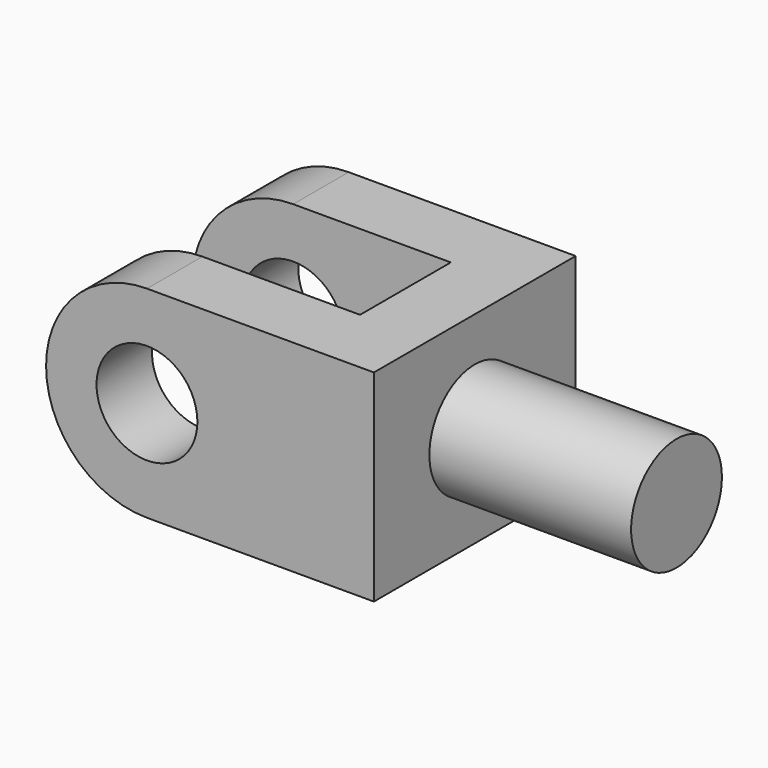
from build123d import *

# Parameters (mm, degrees)
F1_DEPTH = 812.8
F3_DEPTH = 1016.001
F4_W     = 812.8
F4_H     = 457.2
F5_DEPTH = 812.8
F7_DEPTH = 812.8
F8_R     = 203.2
F9_DEPTH = 1016.001


with BuildPart() as f1:
    # F0 (on Top) → F1 (new body)
    with BuildSketch(Plane.XY):
        Polygon((1270.516747, 38.461771), (-50.283253, 38.461771), (-50.283253, -240.938229), (991.116747, -240.938229), (991.116747, -698.138229), (-50.283253, -698.138229), (-50.283253, -977.538229), (1270.516747, -977.538229), align=None)
    extrude(amount=F1_DEPTH)

    # F2 (on face) → F3 (cut, through all)
    with BuildSketch(Plane(origin=(0, 38.461771, 0), x_dir=(-1, 0, 0), z_dir=(0, 1, 0))):
        with BuildLine():
            Line((50.283253, 406.4), (50.283253, 812.8))
            Line((50.283253, 812.8), (-356.116747, 812.8))
            ThreePointArc((-356.116747, 812.8), (-68.748551, 693.768196), (50.283253, 406.4))
        make_face()
        with BuildLine():
            Line((50.283253, 0), (50.283253, 406.4))
            ThreePointArc((50.283253, 406.4), (-68.748551, 119.031804), (-356.116747, 0))
            Line((-356.116747, 0), (50.283253, 0))
        make_face()
    extrude(amount=-F3_DEPTH, mode=Mode.SUBTRACT)

    # F4 (on face) → F5 (join)
    with BuildSketch(Plane.XY.offset(812.8)):
        with Locations((1676.916747, -469.538229)):
            Rectangle(F4_W, F4_H)
    extrude(amount=-F5_DEPTH)

    # F6 (on face) → F7 (cut)
    with BuildSketch(Plane.YZ.offset(2083.316747)):
        with BuildLine():
            ThreePointArc((-698.138229, 406.4), (-469.538229, 635), (-240.938229, 406.4))
            Line((-240.938229, 406.4), (-240.938229, 812.8))
            Line((-240.938229, 812.8), (-698.138229, 812.8))
            Line((-698.138229, 812.8), (-698.138229, 406.4))
        make_face()
        with BuildLine():
            Line((-240.938229, 0), (-240.938229, 406.4))
            ThreePointArc((-240.938229, 406.4), (-469.538229, 177.8), (-698.138229, 406.4))
            Line((-698.138229, 406.4), (-698.138229, 0))
            Line((-698.138229, 0), (-240.938229, 0))
        make_face()
    extrude(amount=-F7_DEPTH, mode=Mode.SUBTRACT)

    # F8 (on face) → F9 (cut, through all)
    with BuildSketch(Plane.XZ.offset(977.538229)):
        with Locations((356.116747, 406.4)):
            Circle(F8_R)
    extrude(amount=-F9_DEPTH, mode=Mode.SUBTRACT)


solid = f1.part
